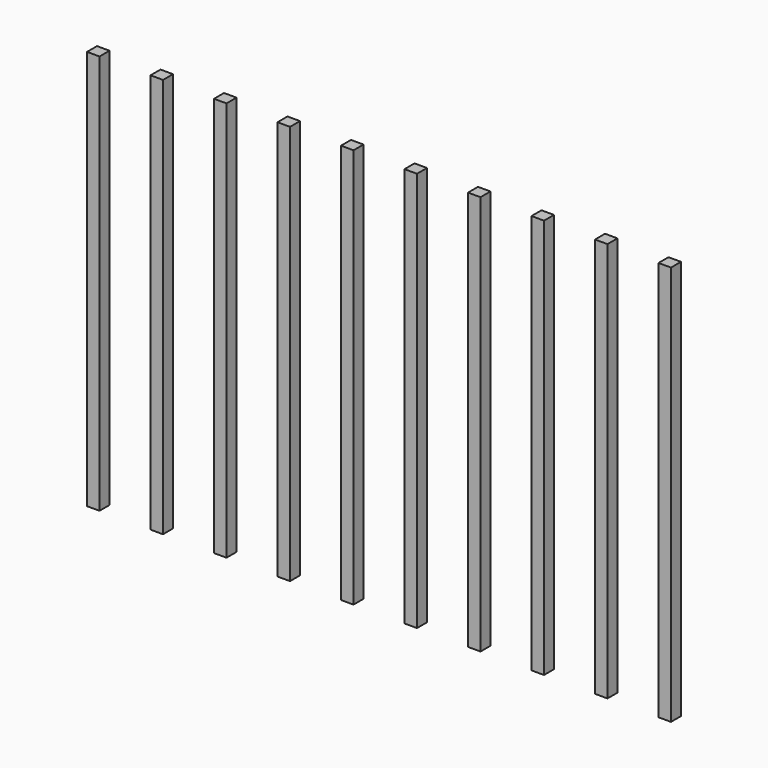
from build123d import *

# Parameters (mm, degrees)
BOX022_W     = 0.5
BOX022_H     = 0.5
BOX022_DEPTH = 16
BOX019_W     = 0.5
BOX019_H     = 0.5
BOX019_DEPTH = 16
BOX023_W     = 0.5
BOX023_H     = 0.5
BOX023_DEPTH = 16
BOX021_W     = 0.5
BOX021_H     = 0.5
BOX021_DEPTH = 16
BOX017_W     = 0.5
BOX017_H     = 0.5
BOX017_DEPTH = 16
BOX014_W     = 0.5
BOX014_H     = 0.5
BOX014_DEPTH = 16
BOX015_W     = 0.5
BOX015_H     = 0.5
BOX015_DEPTH = 16
BOX018_W     = 0.5
BOX018_H     = 0.5
BOX018_DEPTH = 16
BOX020_W     = 0.5
BOX020_H     = 0.5
BOX020_DEPTH = 16
BOX016_W     = 0.5
BOX016_H     = 0.5
BOX016_DEPTH = 16


with BuildPart() as obj1:
    # Box022 → Box022 (new body)
    with BuildSketch(Plane(origin=(18.78, 2.28, -2.5), x_dir=(1, 0, 0), z_dir=(0, 0, 1))):
        with Locations((0.25, 0.25)):
            Rectangle(BOX022_W, BOX022_H)
    extrude(amount=BOX022_DEPTH)


with BuildPart() as obj2:
    # Box019 → Box019 (new body)
    with BuildSketch(Plane(origin=(21.32, 2.28, -2.5), x_dir=(1, 0, 0), z_dir=(0, 0, 1))):
        with Locations((0.25, 0.25)):
            Rectangle(BOX019_W, BOX019_H)
    extrude(amount=BOX019_DEPTH)


with BuildPart() as obj3:
    # Box023 → Box023 (new body)
    with BuildSketch(Plane(origin=(23.86, 2.28, -2.5), x_dir=(1, 0, 0), z_dir=(0, 0, 1))):
        with Locations((0.25, 0.25)):
            Rectangle(BOX023_W, BOX023_H)
    extrude(amount=BOX023_DEPTH)


with BuildPart() as obj4:
    # Box021 → Box021 (new body)
    with BuildSketch(Plane(origin=(16.24, 2.28, -2.5), x_dir=(1, 0, 0), z_dir=(0, 0, 1))):
        with Locations((0.25, 0.25)):
            Rectangle(BOX021_W, BOX021_H)
    extrude(amount=BOX021_DEPTH)


with BuildPart() as fusion006:
    # Box017 → Box017 (new body)
    with BuildSketch(Plane(origin=(13.7, 2.28, -2.5), x_dir=(1, 0, 0), z_dir=(0, 0, 1))):
        with Locations((0.25, 0.25)):
            Rectangle(BOX017_W, BOX017_H)
    extrude(amount=BOX017_DEPTH)

    # Fusion006: union obj1, obj2, obj3, obj4
    add(obj1.part)
    add(obj2.part)
    add(obj3.part)
    add(obj4.part)


with BuildPart() as fusion006_1:
    # Fusion006 placement: moved
    add(fusion006.part.moved(Location((12.7, 0, 0))))


with BuildPart() as obj5:
    # Box014 → Box014 (new body)
    with BuildSketch(Plane(origin=(18.78, 2.28, -2.5), x_dir=(1, 0, 0), z_dir=(0, 0, 1))):
        with Locations((0.25, 0.25)):
            Rectangle(BOX014_W, BOX014_H)
    extrude(amount=BOX014_DEPTH)


with BuildPart() as obj6:
    # Box015 → Box015 (new body)
    with BuildSketch(Plane(origin=(21.32, 2.28, -2.5), x_dir=(1, 0, 0), z_dir=(0, 0, 1))):
        with Locations((0.25, 0.25)):
            Rectangle(BOX015_W, BOX015_H)
    extrude(amount=BOX015_DEPTH)


with BuildPart() as obj7:
    # Box018 → Box018 (new body)
    with BuildSketch(Plane(origin=(23.86, 2.28, -2.5), x_dir=(1, 0, 0), z_dir=(0, 0, 1))):
        with Locations((0.25, 0.25)):
            Rectangle(BOX018_W, BOX018_H)
    extrude(amount=BOX018_DEPTH)


with BuildPart() as obj8:
    # Box020 → Box020 (new body)
    with BuildSketch(Plane(origin=(16.24, 2.28, -2.5), x_dir=(1, 0, 0), z_dir=(0, 0, 1))):
        with Locations((0.25, 0.25)):
            Rectangle(BOX020_W, BOX020_H)
    extrude(amount=BOX020_DEPTH)


with BuildPart() as fusion007:
    # Box016 → Box016 (new body)
    with BuildSketch(Plane(origin=(13.7, 2.28, -2.5), x_dir=(1, 0, 0), z_dir=(0, 0, 1))):
        with Locations((0.25, 0.25)):
            Rectangle(BOX016_W, BOX016_H)
    extrude(amount=BOX016_DEPTH)

    # Fusion008: union obj5, obj6, obj7, obj8
    add(obj5.part)
    add(obj6.part)
    add(obj7.part)
    add(obj8.part)

    # Fusion007: union Fusion006
    add(fusion006_1.part)


with BuildPart() as fusion007_1:
    # Fusion007 placement: moved
    add(fusion007.part.moved(Location((25.4, 0, 0))))


solid = fusion007_1.part
